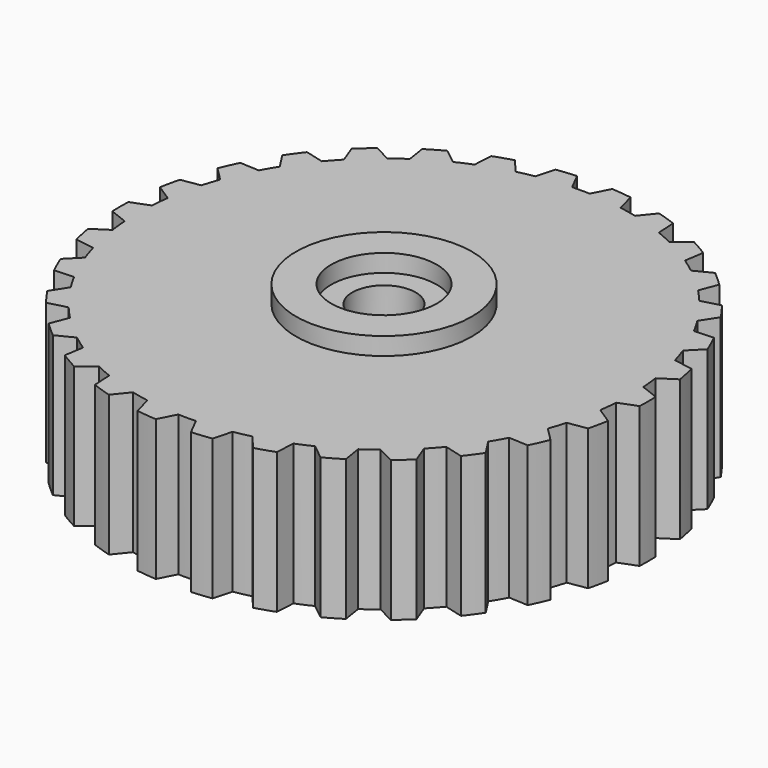
from build123d import *

# Parameters (mm, degrees)
PAD001_DEPTH  = 6
PAD002_DEPTH  = 8
ARRAY_COUNT   = 30
SKETCH_R      = 15
SKETCH_R_2    = 1.8
PAD_DEPTH     = 8
SKETCH003_R   = 5
SKETCH003_R_2 = 3
PAD003_DEPTH  = 1


with BuildPart() as nutmount:
    # Sketch001 → Pad001 (new body)
    with BuildSketch(Plane.XY):
        Polygon((1.6, -2.7712812921), (3.2, 0), (1.6, 2.7712812921), (-1.6, 2.7712812921), (-3.2, 0), (-1.6, -2.7712812921), align=None)
    extrude(amount=PAD001_DEPTH)


with BuildPart() as cutblock:
    # Sketch002 → Pad002 (new body)
    with BuildSketch(Plane.XY):
        with BuildLine():
            ThreePointArc((1, 14.9666295471), (0, 15), (-1, 14.9666295471))
            Line((-1, 14.9666295471), (-0.5, 13.9910685796))
            ThreePointArc((0.5, 13.9910685796), (0, 14), (-0.5, 13.9910685796))
            Line((1, 14.9666295471), (0.5, 13.9910685796))
        make_face()
    extrude(amount=PAD002_DEPTH)

    # Array: CutBlock ×30 about axis
    array_axis = Axis((0, 0, 0), (0, 0, 1))


with BuildPart() as cutblock_1:
    add(cutblock.part)
    for i in range(1, ARRAY_COUNT):
        add(cutblock.part.rotate(array_axis, i * 360 / ARRAY_COUNT))

    # Fusion001: union NutMount
    add(nutmount.part)


with BuildPart() as base:
    # Sketch → Pad (new body)
    with BuildSketch(Plane.XY):
        Circle(SKETCH_R)
        Circle(SKETCH_R_2, mode=Mode.SUBTRACT)
    extrude(amount=PAD_DEPTH)


with BuildPart() as final:
    # Sketch003 → Pad003 (new body)
    with BuildSketch(Plane.XY.offset(8)):
        Circle(SKETCH003_R)
        Circle(SKETCH003_R_2, mode=Mode.SUBTRACT)
    extrude(amount=PAD003_DEPTH)

    # Fusion: union Base
    add(base.part)

    # Cut: cut CutBlock
    add(cutblock_1.part, mode=Mode.SUBTRACT)


solid = final.part
